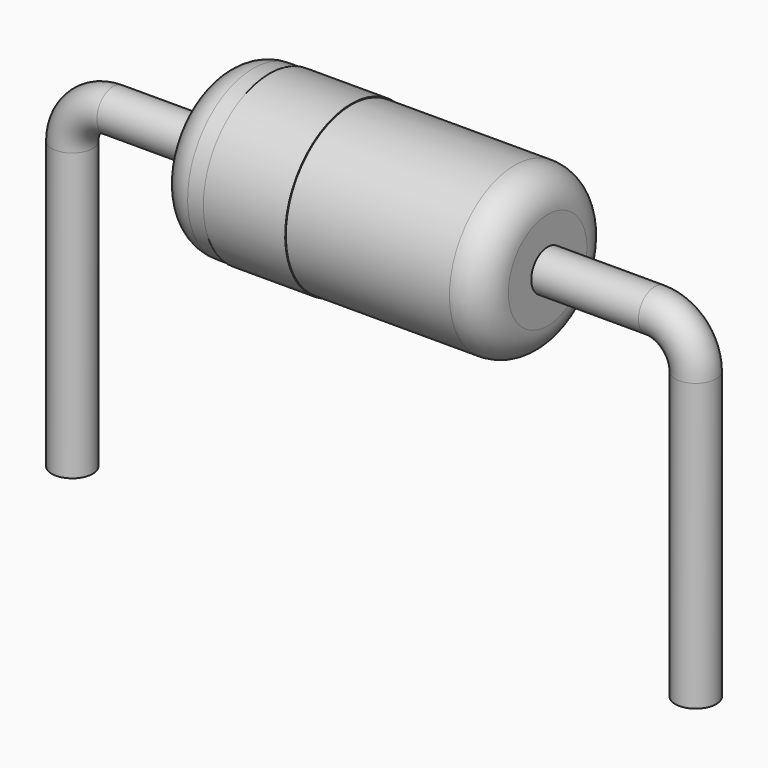
from build123d import *

# Parameters (mm, degrees)
SKETCH002_W = 4
SKETCH002_H = 1
FILLET_R    = 0.4
SKETCH003_W = 1
SKETCH003_H = 0.02
SKETCH_R    = 0.25


with BuildPart() as fillet_body:
    # Sketch002 → Revolution (revolve)
    with BuildSketch(Plane.XZ):
        with Locations((3.81, 2)):
            Rectangle(SKETCH002_W, SKETCH002_H)
    revolve(axis=Axis((1.81, 0, 1.5), (1, 0, 0)))

    # Fillet
    fillet_edges = [fillet_body.edges().sort_by_distance(p)[0] for p in [
        (1.81, 0, 0.5),
        (5.81, 0, 0.5),
    ]]
    fillet(fillet_edges, radius=FILLET_R)


with BuildPart() as revolution001:
    # Sketch003 → Revolution001 (revolve)
    with BuildSketch(Plane.XZ):
        with Locations((2.91, 2.5)):
            Rectangle(SKETCH003_W, SKETCH003_H)
    revolve(axis=Axis((0, 0, 1.5), (1, 0, 0)))


with BuildPart() as sweep_body:
    # Sweep: sweep along a path in Sketch001
    with BuildLine(Plane.XZ) as sweep_path:
        Line((0, -2.5), (0, 1))
        ThreePointArc((0, 1), (0.146447, 1.353553), (0.5, 1.5))
        Line((0.5, 1.5), (7.12, 1.5))
        ThreePointArc((7.12, 1.5), (7.473553, 1.353553), (7.62, 1))
        Line((7.62, 1), (7.62, -2.5))
    # Sketch → Sweep (sweep)
    with BuildSketch(Plane.XY.offset(-2)):
        Circle(SKETCH_R)
    sweep(path=sweep_path.line)


solid = Compound([fillet_body.part, revolution001.part, sweep_body.part])
